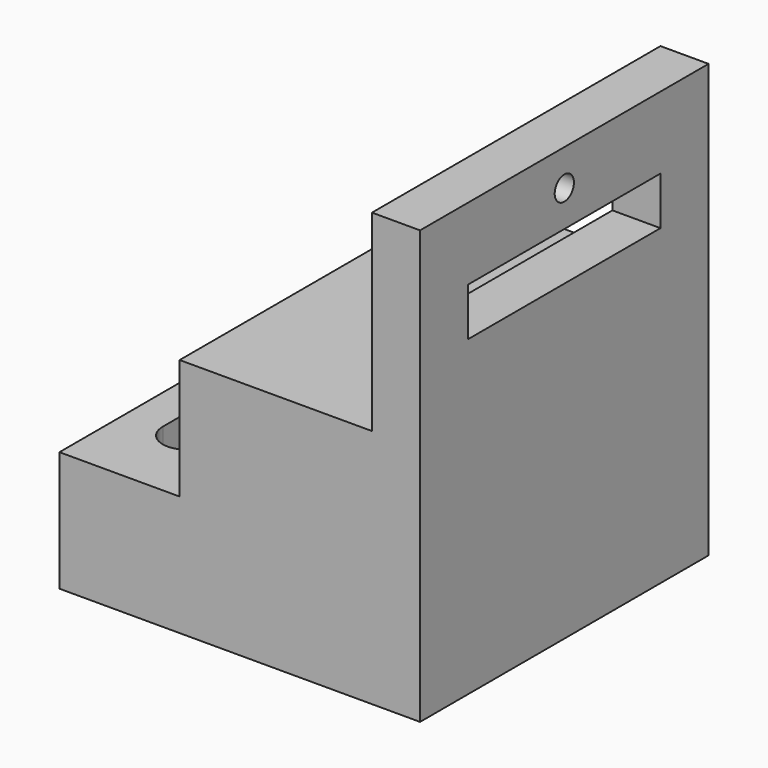
from build123d import *

# Parameters (mm, degrees)
F0_W     = 20
F0_H     = 80
F1_DEPTH = 75
F2_W     = 100
F2_H     = 20
F2_R     = 5
F3_DEPTH = 20.001
F5_DEPTH = 25


with BuildPart() as f1:
    # F0 (on Front) → F1 (new body, symmetric)
    with BuildSketch(Plane.XZ):
        Polygon((75, -25), (75, 25), (-25, 25), (-75, 25), (-75, -25), align=None)
        Polygon((-25, 25), (75, 25), (75, 75), (55, 75), (-25, 75), align=None)
        with Locations((65, 115)):
            Rectangle(F0_W, F0_H)
    extrude(amount=F1_DEPTH, both=True)

    # F2 (on face) → F3 (cut, through all)
    with BuildSketch(Plane(origin=(55, 0, 0), x_dir=(0, -1, 0), z_dir=(-1, 0, 0))):
        with Locations((0, 115)):
            Rectangle(F2_W, F2_H)
        with Locations((0, 140)):
            Circle(F2_R)
    extrude(amount=-F3_DEPTH, mode=Mode.SUBTRACT)

    # F4 (on face) → F5 (cut)
    with BuildSketch(Plane.XY.offset(25)):
        with BuildLine():
            Line((-40, -40), (-40, 40))
            ThreePointArc((-40, 40), (-42.928932, 47.071068), (-50, 50))
            ThreePointArc((-50, 50), (-57.071068, 47.071068), (-60, 40))
            Line((-60, 40), (-60, -40))
            ThreePointArc((-60, -40), (-57.071068, -47.071068), (-50, -50))
            ThreePointArc((-50, -50), (-42.928932, -47.071068), (-40, -40))
        make_face()
    extrude(amount=-F5_DEPTH, mode=Mode.SUBTRACT)


solid = f1.part
